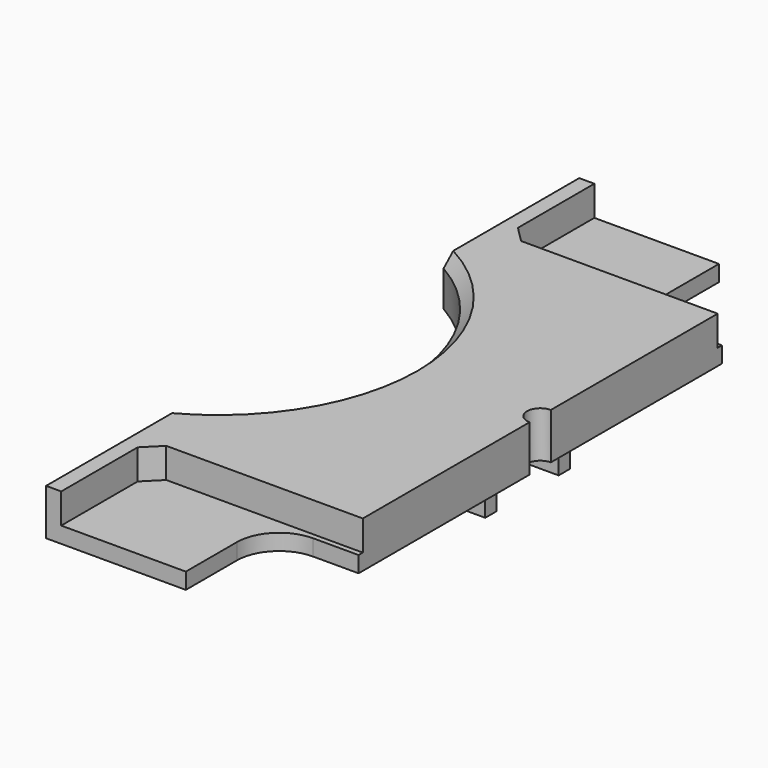
from build123d import *

# Parameters (mm, degrees)
SKETCH_W        = 21.5
SKETCH_H        = 62.95
PAD_DEPTH       = 4.36
SKETCH001_W     = 3.96
SKETCH001_H     = 1.33
PAD001_DEPTH    = 2.46
SKETCH002_W     = 40.406182
SKETCH002_H     = 15.340348
POCKET_DEPTH    = 2.84
CHAMFER_SIZE    = 1.5
CHAMFER001_SIZE = 1.5
SKETCH003_R     = 1.25
POCKET001_DEPTH = 6.821
SKETCH004_R     = 17.85
POCKET002_DEPTH = 5
CHAMFER002_SIZE = 1
SKETCH005_W     = 26.6657
SKETCH005_H     = 14.870099
POCKET003_DEPTH = 5
FILLET_R        = 4
FILLET001_R     = 4


with BuildPart() as part:
    # Sketch → Pad (new body)
    with BuildSketch(Plane.XY):
        Rectangle(SKETCH_W, SKETCH_H)
    extrude(amount=PAD_DEPTH)

    # Sketch001 → Pad001 (join)
    with BuildSketch(Plane.XY):
        with Locations((7.57, 4.335)):
            Rectangle(SKETCH001_W, SKETCH001_H)
    pad001 = extrude(amount=-PAD001_DEPTH)

    # Mirrored: Pad001 across Sketch001 H_Axis
    add(pad001.mirror(Plane.ZX))

    # Sketch002 (on Face5 of Mirrored) → Pocket (cut)
    with BuildSketch(Plane.XY.offset(4.36)):
        with Locations((10.883091, 28.620174)):
            Rectangle(SKETCH002_W, SKETCH002_H)
    pocket = extrude(amount=-POCKET_DEPTH, mode=Mode.SUBTRACT)

    # Chamfer
    chamfer_edges = [part.edges().sort_by_distance(p)[0] for p in [
        (-9.32, 20.95, 2.94),
    ]]
    chamfer(chamfer_edges, length=CHAMFER_SIZE)

    # Mirrored001: Pocket across Sketch002 H_Axis
    add(pocket.mirror(Plane(origin=(0, 0, 4.36), x_dir=(0, 0, 1), z_dir=(0, 1, 0))), mode=Mode.SUBTRACT)

    # Chamfer001
    chamfer001_edges = [part.edges().sort_by_distance(p)[0] for p in [
        (-9.32, -20.95, 2.94),
    ]]
    chamfer(chamfer001_edges, length=CHAMFER001_SIZE)

    # Sketch003 (on Face1 of Chamfer001) → Pocket001 (cut, through all)
    with BuildSketch(Plane.XY.offset(4.36)):
        with Locations((10.75, 0)):
            Circle(SKETCH003_R)
    extrude(amount=-POCKET001_DEPTH, mode=Mode.SUBTRACT)

    # Sketch004 (on Face1 of Pocket001) → Pocket002 (cut)
    with BuildSketch(Plane.XY.offset(4.36)):
        with Locations((-19.675, 0)):
            Circle(SKETCH004_R)
    extrude(amount=-POCKET002_DEPTH, mode=Mode.SUBTRACT)

    # Chamfer002
    chamfer002_edges = [part.edges().sort_by_distance(p)[0] for p in [
        (-4.216447, 8.925, 4.36),
        (-4.216447, -8.925, 4.36),
    ]]
    chamfer(chamfer002_edges, length=CHAMFER002_SIZE)

    # Sketch005 (on Face19 of Chamfer002) → Pocket003 (cut)
    with BuildSketch(Plane.XY.offset(1.52)):
        with Locations((15.78285, 28.88505)):
            Rectangle(SKETCH005_W, SKETCH005_H)
    pocket003 = extrude(amount=-POCKET003_DEPTH, mode=Mode.SUBTRACT)

    # Fillet
    fillet_edges = [part.edges().sort_by_distance(p)[0] for p in [
        (2.45, 21.45, 0.76),
    ]]
    fillet(fillet_edges, radius=FILLET_R)

    # Mirrored002: Pocket003 across Sketch005 H_Axis
    add(pocket003.mirror(Plane(origin=(0, 0, 1.52), x_dir=(0, 0, 1), z_dir=(0, 1, 0))), mode=Mode.SUBTRACT)

    # Fillet001
    fillet001_edges = [part.edges().sort_by_distance(p)[0] for p in [
        (2.45, -21.45, 0.76),
    ]]
    fillet(fillet001_edges, radius=FILLET001_R)


solid = part.part
